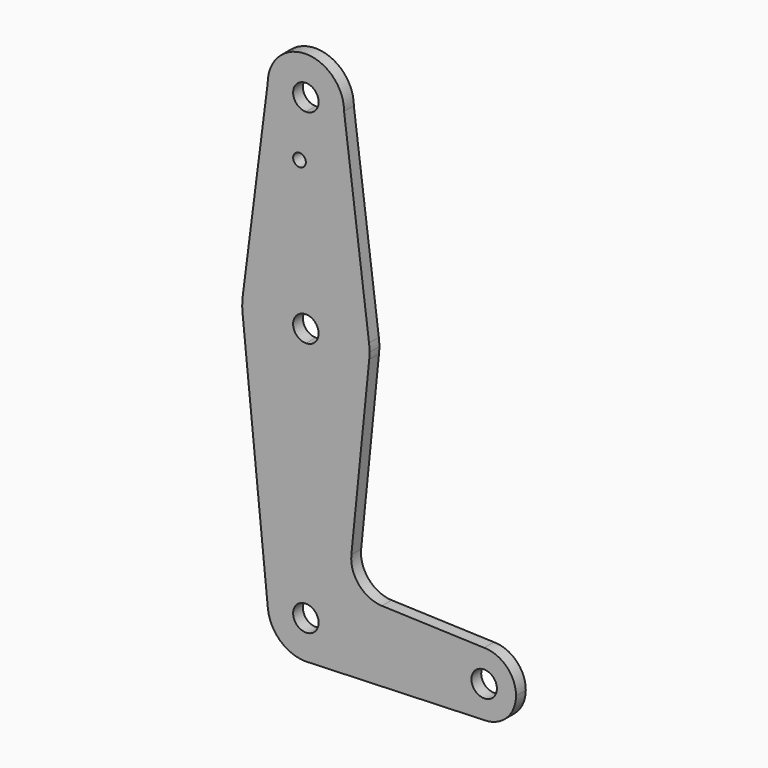
from build123d import *

# Parameters (mm, degrees)
F0_R     = 1.5875
F1_DEPTH = 3.048


with BuildPart() as f1:
    # F0 (on Front) → F1 (new body)
    with BuildSketch(Plane.XZ):
        with BuildLine():
            ThreePointArc((3.175, 0), (-2.2450640303, -2.2450640303), (0, 3.175))
            Line((0, 3.175), (0, 9.525))
            ThreePointArc((0, 9.525), (-7.063929059, 6.3895642457), (-9.4772553384, -0.9525))
            ThreePointArc((-9.4772553384, -0.9525), (-6.3895642457, -7.063929059), (0, -9.525))
            Line((0, -9.525), (0.6794904459, -9.5007324841))
            ThreePointArc((0.6794904459, -9.5007324841), (6.9712901065, -6.4905114784), (9.525, 0))
            Line((9.525, 0), (3.175, 0))
        make_face()
        with BuildLine():
            ThreePointArc((-9.4772553384, -0.9525), (-7.063929059, 6.3895642457), (0, 9.525))
            Line((0, 9.525), (0, 47.625))
            ThreePointArc((0, 47.625), (-10.6492737428, 51.7267849017), (-15.7954255641, 61.9125))
            Line((-15.7954255641, 61.9125), (-9.4772553384, -0.9525))
        make_face()
        with BuildLine():
            Line((0, 47.625), (0, 9.525))
            ThreePointArc((0, 9.525), (6.7351920908, 6.7351920908), (9.525, 0))
            Line((9.525, 0), (36.5125, 0))
            ThreePointArc((36.5125, 0), (38.8373399243, 5.6126600757), (44.45, 7.9375))
            Line((44.45, 7.9375), (18.9664742022, 8.8511343208))
            ThreePointArc((18.9664742022, 8.8511343208), (13.260685791, 11.5695707689), (11.3409723165, 17.5912497948))
            Line((11.3409723165, 17.5912497948), (15.7954255641, 61.9125))
            ThreePointArc((15.7954255641, 61.9125), (10.6492737428, 51.7267849017), (0, 47.625))
        make_face()
        with BuildLine():
            Line((36.5125, 0), (9.525, 0))
            ThreePointArc((9.525, 0), (6.9712901065, -6.4905114784), (0.6794904459, -9.5007324841))
            Line((0.6794904459, -9.5007324841), (44.45, -7.9375))
            ThreePointArc((44.45, -7.9375), (38.8373399243, -5.6126600757), (36.5125, 0))
        make_face()
        with BuildLine():
            ThreePointArc((-15.7954255641, 61.9125), (-10.6492737428, 51.7267849017), (0, 47.625))
            Line((0, 47.625), (0, 60.325))
            ThreePointArc((0, 60.325), (-3.175, 63.5), (0, 66.675))
            Line((0, 66.675), (0, 79.375))
            ThreePointArc((0, 79.375), (-10.4912828548, 75.4142187767), (-15.7474569047, 65.5082893304))
            ThreePointArc((-15.7474569047, 65.5082893304), (-15.8735876171, 63.7117573215), (-15.7954255641, 61.9125))
        make_face()
        with BuildLine():
            Line((0, 60.325), (0, 47.625))
            ThreePointArc((0, 47.625), (10.6492737428, 51.7267849017), (15.7954255641, 61.9125))
            ThreePointArc((15.7954255641, 61.9125), (15.8550939106, 62.7052534459), (15.875, 63.5))
            ThreePointArc((15.875, 63.5), (15.8430821396, 64.5061676396), (15.7474569047, 65.5082893304))
            ThreePointArc((15.7474569047, 65.5082893304), (10.4912828548, 75.4142187767), (0, 79.375))
            Line((0, 79.375), (0, 66.675))
            ThreePointArc((0, 66.675), (2.2450640303, 65.7450640303), (3.175, 63.5))
            ThreePointArc((3.175, 63.5), (2.2450640303, 61.2549359697), (0, 60.325))
        make_face()
        with BuildLine():
            ThreePointArc((44.45, 7.9375), (38.8373399243, 5.6126600757), (36.5125, 0))
            ThreePointArc((36.5125, 0), (38.8373399243, -5.6126600757), (44.45, -7.9375))
            ThreePointArc((44.45, -7.9375), (50.0626600757, -5.6126600757), (52.3875, 0))
            ThreePointArc((52.3875, 0), (50.0626600757, 5.6126600757), (44.45, 7.9375))
        make_face()
        with BuildLine():
            ThreePointArc((47.625, 0), (44.45, -3.175), (41.275, 0))
            ThreePointArc((41.275, 0), (44.45, 3.175), (47.625, 0))
        make_face(mode=Mode.SUBTRACT)
        with BuildLine():
            ThreePointArc((0, -9.525), (0.3399618281, -9.5189311877), (0.6794904459, -9.5007324841))
            Line((0.6794904459, -9.5007324841), (0, -9.525))
        make_face()
        with BuildLine():
            Line((-9.525, 114.3), (-15.7474569047, 65.5082893304))
            ThreePointArc((-15.7474569047, 65.5082893304), (-10.4912828548, 75.4142187767), (0, 79.375))
            Line((0, 79.375), (0, 100.0252))
            Line((0, 100.0252), (0, 104.775))
            ThreePointArc((0, 104.775), (-6.7351920908, 107.5648079092), (-9.525, 114.3))
        make_face()
        with Locations((-1.5875, 100.0252)):
            Circle(F0_R, mode=Mode.SUBTRACT)
        with BuildLine():
            Line((0, 100.0252), (0, 79.375))
            ThreePointArc((0, 79.375), (10.4912828548, 75.4142187767), (15.7474569047, 65.5082893304))
            Line((15.7474569047, 65.5082893304), (9.525, 114.3))
            ThreePointArc((9.525, 114.3), (6.7351920908, 107.5648079092), (0, 104.775))
            Line((0, 104.775), (0, 100.0252))
        make_face()
        with BuildLine():
            ThreePointArc((9.525, 114.3), (0, 123.825), (-9.525, 114.3))
            ThreePointArc((-9.525, 114.3), (-6.7351920908, 107.5648079092), (0, 104.775))
            ThreePointArc((0, 104.775), (6.7351920908, 107.5648079092), (9.525, 114.3))
        make_face()
        with BuildLine():
            ThreePointArc((3.175, 114.3), (2.2450640303, 112.0549359697), (0, 111.125))
            ThreePointArc((0, 111.125), (-2.2450640303, 116.5450640303), (3.175, 114.3))
        make_face(mode=Mode.SUBTRACT)
        with BuildLine():
            Line((0, 9.525), (0, 3.175))
            ThreePointArc((0, 3.175), (2.2450640303, 2.2450640303), (3.175, 0))
            Line((3.175, 0), (9.525, 0))
            ThreePointArc((9.525, 0), (6.7351920908, 6.7351920908), (0, 9.525))
        make_face()
    extrude(amount=F1_DEPTH)


solid = f1.part
